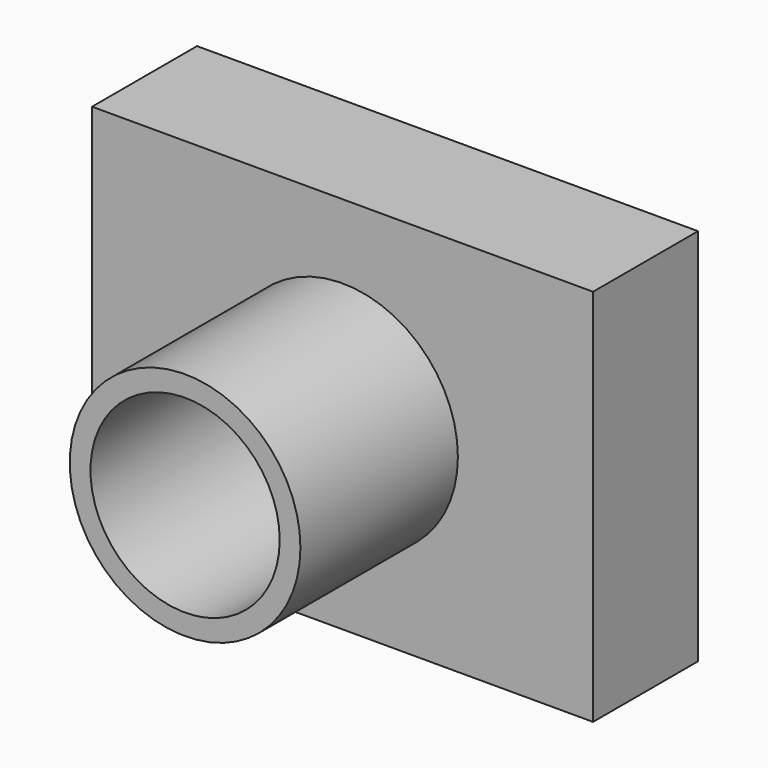
from build123d import *

# Parameters (mm, degrees)
F0_W     = 96.981816
F0_H     = 73.306844
F3_DEPTH = 25.4
F1_R     = 22.325888
F4_DEPTH = 63.5
F2_R     = 18.313732
F5_DEPTH = 63.501


with BuildPart() as f3:
    # F0 (on Front) → F3 (new body)
    with BuildSketch(Plane.XZ):
        Rectangle(F0_W, F0_H)
    extrude(amount=F3_DEPTH)

    # F1 (on face) → F4 (join)
    with BuildSketch(Plane.XZ):
        Circle(F1_R)
    extrude(amount=F4_DEPTH)

    # F2 (on face) → F5 (cut, through all)
    with BuildSketch(Plane.XZ):
        Circle(F2_R)
    extrude(amount=F5_DEPTH, mode=Mode.SUBTRACT)


solid = f3.part
